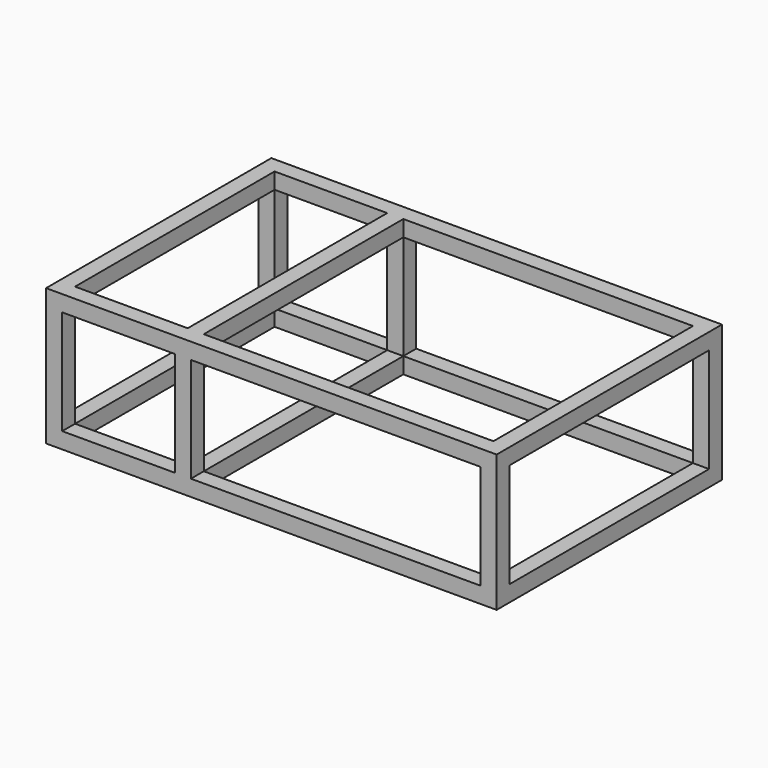
from build123d import *

# Parameters (mm, degrees)
F0_W      = 711.2
F0_H      = 444.5
F0_W_2    = 660.4
F0_H_2    = 393.7
F1_DEPTH  = 215.9
F2_W      = 660.4
F2_H      = 165.1
F3_DEPTH  = 444.501
F4_W      = 393.7
F4_H      = 165.1
F5_DEPTH  = 711.201
F6_W      = 25.4
F6_H      = 25.4
F7_DEPTH  = 393.7
F8_W      = 25.4
F8_H      = 25.4
F9_DEPTH  = 393.7
F10_W     = 25.4
F10_H     = 25.4
F11_DEPTH = 165.1


with BuildPart() as f1:
    # F0 (on Top) → F1 (new body)
    with BuildSketch(Plane.XY):
        with Locations((355.6, 222.25)):
            Rectangle(F0_W, F0_H)
        with Locations((355.6, 222.25)):
            Rectangle(F0_W_2, F0_H_2, mode=Mode.SUBTRACT)
    extrude(amount=F1_DEPTH)

    # F2 (on face) → F3 (cut, through all)
    with BuildSketch(Plane.XZ):
        with Locations((355.6, 107.95)):
            Rectangle(F2_W, F2_H)
    extrude(amount=-F3_DEPTH, mode=Mode.SUBTRACT)

    # F4 (on face) → F5 (cut, through all)
    with BuildSketch(Plane.YZ.offset(711.2)):
        with Locations((222.25, 107.95)):
            Rectangle(F4_W, F4_H)
    extrude(amount=-F5_DEPTH, mode=Mode.SUBTRACT)

    # F6 (on face) → F7 (join, through all)
    with BuildSketch(Plane.XZ.offset(-419.1)):
        with Locations((215.9, 203.2)):
            Rectangle(F6_W, F6_H)
    extrude(amount=F7_DEPTH)

    # F8 (on face) → F9 (join, through all)
    with BuildSketch(Plane(origin=(0, 25.4, 0), x_dir=(-1, 0, 0), z_dir=(0, 1, 0))):
        with Locations((-215.9, 12.7)):
            Rectangle(F8_W, F8_H)
    extrude(amount=F9_DEPTH)

    # F10 (on face) → F11 (join, through all)
    with BuildSketch(Plane(origin=(0, 0, 190.5), x_dir=(1, 0, 0), z_dir=(0, 0, -1))):
        with Locations((215.9, -431.8)):
            Rectangle(F10_W, F10_H)
        with Locations((215.9, -12.7)):
            Rectangle(F10_W, F10_H)
    extrude(amount=F11_DEPTH)


solid = f1.part
